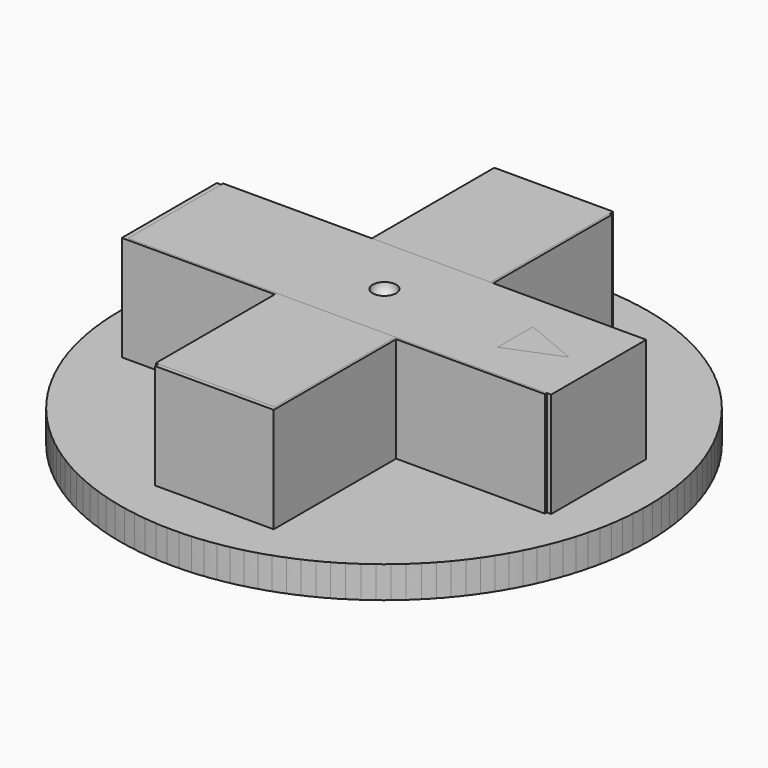
from build123d import *

# Parameters (mm, degrees)
F0_R     = 12.4925376122
F1_DEPTH = 1.49999954
F2_W     = 5.6254547089
F2_H     = 20.0294479728
F3_DEPTH = 4.9784
F4_ANGLE = 90
F6_DEPTH = 0.508
F7_ANGLE = 90
F8_ANGLE = 180
F9_ANGLE = 270


with BuildPart() as f1:
    # F0 (on Top) → F1 (new body)
    with BuildSketch(Plane.XY):
        Circle(F0_R)
    extrude(amount=F1_DEPTH)

    # F2 (on face) → F3 (join)
    with BuildSketch(Plane.XY.offset(1.49999954)):
        with Locations((-0.0586905517, 0.1018550247)):
            Rectangle(F2_W, F2_H)
    extrude(amount=F3_DEPTH)


with BuildPart() as f4_1:
    # F4: copy of F1
    add(f1.part.rotate(Axis((0, 0, 1.49999954), (0, 0, 1)), F4_ANGLE))


with BuildPart() as f1_1:
    add(f1.part)

    # F5 (on face) → F6 (cut)
    with BuildSketch(Plane.XY.offset(6.47839954)):
        Polygon((1.0343084128, 6.2022455968), (0, 8.7543390691), (-1.060815071, 6.2022455968), align=None)
    extrude(amount=-F6_DEPTH, mode=Mode.SUBTRACT)


with BuildPart() as f7_1:
    # F7: copy of F1
    add(f1_1.part.rotate(Axis((0, 0, 1.49999954), (0, 0, 1)), F7_ANGLE))


with BuildPart() as f8_1:
    # F8: copy of F1
    add(f1_1.part.rotate(Axis((0, 0, 1.49999954), (0, 0, 1)), F8_ANGLE))


with BuildPart() as f8_2:
    # F8: copy of F4_1
    add(f4_1.part.rotate(Axis((0, 0, 1.49999954), (0, 0, 1)), F8_ANGLE))


with BuildPart() as f9_1:
    # F9: copy of F4_1
    add(f4_1.part.rotate(Axis((0, 0, 1.49999954), (0, 0, 1)), F9_ANGLE))


with BuildPart() as f9_2:
    # F9: copy of F1
    add(f1_1.part.rotate(Axis((0, 0, 1.49999954), (0, 0, 1)), F9_ANGLE))


with BuildPart() as f11:
    # F10 (on face) → F11 (revolve)
    with BuildSketch(Plane(origin=(0, 0, 0), x_dir=(1, 0, 0), z_dir=(0, 0, -1))):
        with BuildLine():
            Line((2.7140288148, 0), (-2.7421168052, 0))
            ThreePointArc((-2.7421168052, 0), (-0.0140439952, -2.72807281), (2.7140288148, 0))
        make_face()
    revolve(axis=Axis((0.2995932009, 0, 0), (1, 0, 0)))


with BuildPart() as f13_tool:
    # F12 (on face) → F13 (revolve)
    with BuildSketch(Plane.XY.offset(6.47839954)):
        with BuildLine():
            Line((-0.5384656251, 0), (0.5765479291, 0))
            ThreePointArc((0.5765479291, 0), (0.019041152, 0.5575067771), (-0.5384656251, 0))
        make_face()
    revolve(axis=Axis((0.0574899605, 0, 6.47839954), (1, 0, 0)))


with BuildPart() as f1_2:
    add(f1_1.part)

    # F13: cut by f13_tool
    add(f13_tool.part, mode=Mode.SUBTRACT)


with BuildPart() as f4_1_1:
    add(f4_1.part)

    # F13: cut by f13_tool
    add(f13_tool.part, mode=Mode.SUBTRACT)


with BuildPart() as f7_1_1:
    add(f7_1.part)

    # F13: cut by f13_tool
    add(f13_tool.part, mode=Mode.SUBTRACT)


with BuildPart() as f8_1_1:
    add(f8_1.part)

    # F13: cut by f13_tool
    add(f13_tool.part, mode=Mode.SUBTRACT)


with BuildPart() as f8_2_1:
    add(f8_2.part)

    # F13: cut by f13_tool
    add(f13_tool.part, mode=Mode.SUBTRACT)


with BuildPart() as f9_1_1:
    add(f9_1.part)

    # F13: cut by f13_tool
    add(f13_tool.part, mode=Mode.SUBTRACT)


with BuildPart() as f9_2_1:
    add(f9_2.part)

    # F13: cut by f13_tool
    add(f13_tool.part, mode=Mode.SUBTRACT)


solid = Compound([f11.part, f1_2.part, f4_1_1.part, f7_1_1.part, f8_1_1.part, f8_2_1.part, f9_1_1.part, f9_2_1.part])
